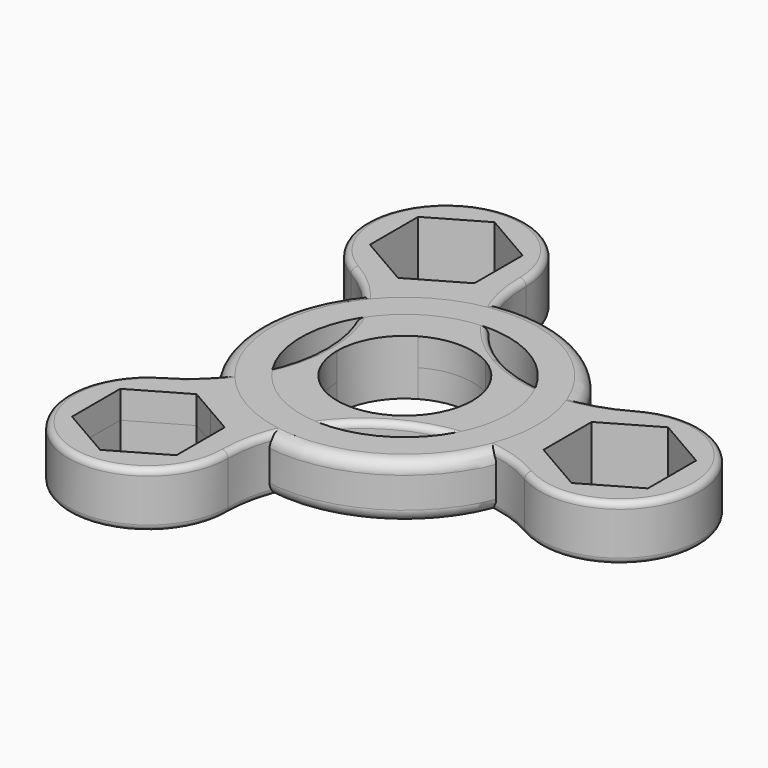
from build123d import *

# Parameters (mm, degrees)
F1_DEPTH = 4.5
F2_R     = 1
F3_DEPTH = 4.5
F4_R     = 23.613908077
F4_R_2   = 16.9209464744
F5_DEPTH = 4.5
F6_DEPTH = 4.5
F7_R     = 2


with BuildPart() as f1:
    # F0 (on Top) → F1 (new body, symmetric)
    with BuildSketch(Plane.XY):
        with BuildLine():
            ThreePointArc((-11, 0), (-9.5262794416, 5.5), (-5.5, 9.5262794416))
            Line((-5.5, 9.5262794416), (-11, 19.0525588833))
            ThreePointArc((-11, 19.0525588833), (-17.5, 17.3108891325), (-24, 19.0525588833))
            ThreePointArc((-24, 19.0525588833), (-15.9474411167, 11), (-13, 0))
            Line((-13, 0), (-11, 0))
        make_face()
        with BuildLine():
            Line((-11, 19.0525588833), (-5.5, 9.5262794416))
            ThreePointArc((-5.5, 9.5262794416), (0, 11), (5.5, 9.5262794416))
            Line((5.5, 9.5262794416), (6.5, 11.2583302492))
            ThreePointArc((6.5, 11.2583302492), (-1.5525588833, 19.3108891325), (-4.5, 30.3108891325))
            ThreePointArc((-4.5, 30.3108891325), (-6.2416697508, 23.8108891325), (-11, 19.0525588833))
        make_face()
        with BuildLine():
            ThreePointArc((5.5, 9.5262794416), (9.5262794416, 5.5), (11, 0))
            Line((11, 0), (22, 0))
            ThreePointArc((22, 0), (23.7416697508, 6.5), (28.5, 11.2583302492))
            ThreePointArc((28.5, 11.2583302492), (17.5, 8.3108891325), (6.5, 11.2583302492))
            Line((6.5, 11.2583302492), (5.5, 9.5262794416))
        make_face()
        with BuildLine():
            Line((22, 0), (11, 0))
            ThreePointArc((11, 0), (9.5262794416, -5.5), (5.5, -9.5262794416))
            Line((5.5, -9.5262794416), (6.5, -11.2583302492))
            ThreePointArc((6.5, -11.2583302492), (17.5, -8.3108891325), (28.5, -11.2583302492))
            ThreePointArc((28.5, -11.2583302492), (23.7416697508, -6.5), (22, 0))
        make_face()
        with BuildLine():
            ThreePointArc((5.5, -9.5262794416), (0, -11), (-5.5, -9.5262794416))
            Line((-5.5, -9.5262794416), (-11, -19.0525588833))
            ThreePointArc((-11, -19.0525588833), (-6.2416697508, -23.8108891325), (-4.5, -30.3108891325))
            ThreePointArc((-4.5, -30.3108891325), (-1.5525588833, -19.3108891325), (6.5, -11.2583302492))
            Line((6.5, -11.2583302492), (5.5, -9.5262794416))
        make_face()
        with BuildLine():
            Line((-11, -19.0525588833), (-5.5, -9.5262794416))
            ThreePointArc((-5.5, -9.5262794416), (-9.5262794416, -5.5), (-11, 0))
            Line((-11, 0), (-13, 0))
            ThreePointArc((-13, 0), (-15.9474411167, -11), (-24, -19.0525588833))
            ThreePointArc((-24, -19.0525588833), (-17.5, -17.3108891325), (-11, -19.0525588833))
        make_face()
        with BuildLine():
            ThreePointArc((28.5, 11.2583302492), (23.7416697508, 6.5), (22, 0))
            ThreePointArc((22, 0), (23.7416697508, -6.5), (28.5, -11.2583302492))
            ThreePointArc((28.5, -11.2583302492), (41.5, -11.2583302492), (48, 0))
            ThreePointArc((48, 0), (41.5, 11.2583302492), (28.5, 11.2583302492))
        make_face()
        with BuildLine():
            ThreePointArc((46, 0), (35, -11), (24, 0))
            ThreePointArc((24, 0), (35, 11), (46, 0))
        make_face(mode=Mode.SUBTRACT)
        with BuildLine():
            ThreePointArc((-24, 19.0525588833), (-17.5, 17.3108891325), (-11, 19.0525588833))
            ThreePointArc((-11, 19.0525588833), (-6.2416697508, 23.8108891325), (-4.5, 30.3108891325))
            ThreePointArc((-4.5, 30.3108891325), (-24, 41.5692193817), (-24, 19.0525588833))
        make_face()
        with BuildLine():
            ThreePointArc((-6.5, 30.3108891325), (-7.9737205584, 24.8108891325), (-12, 20.7846096908))
            ThreePointArc((-12, 20.7846096908), (-27.0262794416, 35.8108891325), (-6.5, 30.3108891325))
        make_face(mode=Mode.SUBTRACT)
        with BuildLine():
            ThreePointArc((-4.5, -30.3108891325), (-6.2416697508, -23.8108891325), (-11, -19.0525588833))
            ThreePointArc((-11, -19.0525588833), (-17.5, -17.3108891325), (-24, -19.0525588833))
            ThreePointArc((-24, -19.0525588833), (-24, -41.5692193817), (-4.5, -30.3108891325))
        make_face()
        with BuildLine():
            ThreePointArc((-6.5, -30.3108891325), (-27.0262794416, -35.8108891325), (-12, -20.7846096908))
            ThreePointArc((-12, -20.7846096908), (-7.9737205584, -24.8108891325), (-6.5, -30.3108891325))
        make_face(mode=Mode.SUBTRACT)
    extrude(amount=F1_DEPTH, both=True)

    # F2
    f2_edges = [f1.edges().sort_by_distance(p)[0] for p in [
        (6.5, -11.25833, 4.5),
        (6.5, 11.25833, -4.5),
        (-13, 0, -4.5),
    ]]
    fillet(f2_edges, radius=F2_R)

    # F0 (on Top) → F3 (join)
    with BuildSketch(Plane.XY):
        with BuildLine():
            ThreePointArc((-6.5, 30.3108891325), (-27.0262794416, 35.8108891325), (-12, 20.7846096908))
            ThreePointArc((-12, 20.7846096908), (-7.9737205584, 24.8108891325), (-6.5, 30.3108891325))
        make_face()
        Polygon((-9, 25.4034118443), (-13.25, 22.9496732003), (-17.5, 20.4959345562), (-26, 25.4034118443), (-26, 35.2183664206), (-17.5, 40.1258437087), (-9, 35.2183664206), align=None, mode=Mode.SUBTRACT)
        with BuildLine():
            ThreePointArc((46, 0), (35, 11), (24, 0))
            ThreePointArc((24, 0), (35, -11), (46, 0))
        make_face()
        Polygon((26.5, -4.9074772881), (26.5, 0), (26.5, 4.9074772881), (35, 9.8149545762), (43.5, 4.9074772881), (43.5, -4.9074772881), (35, -9.8149545762), align=None, mode=Mode.SUBTRACT)
        with BuildLine():
            ThreePointArc((-6.5, -30.3108891325), (-7.9737205584, -24.8108891325), (-12, -20.7846096908))
            ThreePointArc((-12, -20.7846096908), (-27.0262794416, -35.8108891325), (-6.5, -30.3108891325))
        make_face()
        Polygon((-17.5, -20.4959345562), (-13.25, -22.9496732003), (-9, -25.4034118443), (-9, -35.2183664206), (-17.5, -40.1258437087), (-26, -35.2183664206), (-26, -25.4034118443), align=None, mode=Mode.SUBTRACT)
    extrude(amount=F3_DEPTH)

    # F0 (on Top) → F6 (join)
    with BuildSketch(Plane.XY):
        with BuildLine():
            ThreePointArc((46, 0), (35, 11), (24, 0))
            ThreePointArc((24, 0), (35, -11), (46, 0))
        make_face()
        Polygon((26.5, -4.9074772881), (26.5, 0), (26.5, 4.9074772881), (35, 9.8149545762), (43.5, 4.9074772881), (43.5, -4.9074772881), (35, -9.8149545762), align=None, mode=Mode.SUBTRACT)
        with BuildLine():
            ThreePointArc((-6.5, 30.3108891325), (-27.0262794416, 35.8108891325), (-12, 20.7846096908))
            ThreePointArc((-12, 20.7846096908), (-7.9737205584, 24.8108891325), (-6.5, 30.3108891325))
        make_face()
        Polygon((-9, 25.4034118443), (-13.25, 22.9496732003), (-17.5, 20.4959345562), (-26, 25.4034118443), (-26, 35.2183664206), (-17.5, 40.1258437087), (-9, 35.2183664206), align=None, mode=Mode.SUBTRACT)
        with BuildLine():
            ThreePointArc((-6.5, -30.3108891325), (-7.9737205584, -24.8108891325), (-12, -20.7846096908))
            ThreePointArc((-12, -20.7846096908), (-27.0262794416, -35.8108891325), (-6.5, -30.3108891325))
        make_face()
        Polygon((-17.5, -20.4959345562), (-13.25, -22.9496732003), (-9, -25.4034118443), (-9, -35.2183664206), (-17.5, -40.1258437087), (-26, -35.2183664206), (-26, -25.4034118443), align=None, mode=Mode.SUBTRACT)
    extrude(amount=-F6_DEPTH)


with BuildPart() as f5:
    # F4 (on Top) → F5 (new body, symmetric)
    with BuildSketch(Plane.XY):
        Circle(F4_R)
        Circle(F4_R_2, mode=Mode.SUBTRACT)
    extrude(amount=F5_DEPTH, both=True)

    # F7
    f7_edges = [f5.edges().sort_by_distance(p)[0] for p in [
        (-23.613908, 0, 4.5),
        (-23.613908, 0, -4.5),
    ]]
    fillet(f7_edges, radius=F7_R)


solid = Compound([f1.part, f5.part])
